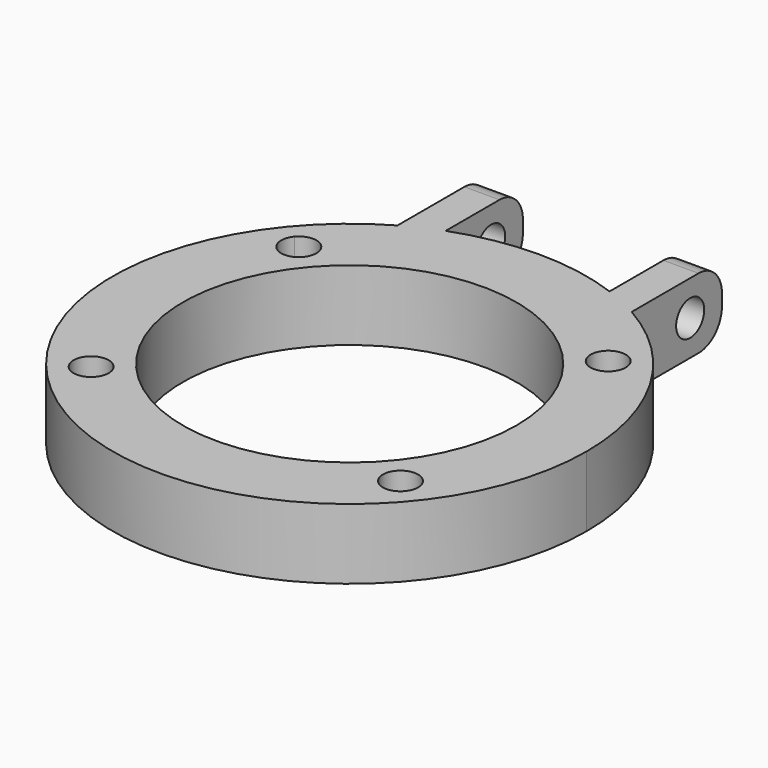
from build123d import *

# Parameters (mm, degrees)
F0_R     = 1.5
F0_R_2   = 14.25
F1_DEPTH = 6
F2_R     = 1.5
F3_DEPTH = 30.251
F4_R     = 2.5


with BuildPart() as f1:
    # F0 (on Top) → F1 (new body)
    with BuildSketch(Plane.XY):
        with BuildLine():
            ThreePointArc((-10, 17.608592), (-10.187308, -17.500893), (20.25, 0))
            ThreePointArc((20.25, 0), (17.500893, 10.187308), (10, 17.608592))
            ThreePointArc((10, 17.608592), (8.52849, 18.366474), (7, 19.001645))
            ThreePointArc((7, 19.001645), (0, 20.25), (-7, 19.001645))
            ThreePointArc((-7, 19.001645), (-8.52849, 18.366474), (-10, 17.608592))
        make_face()
        with Locations((-13.214267, -11.088086)):
            Circle(F0_R, mode=Mode.SUBTRACT)
        with Locations((13.214267, -11.088086)):
            Circle(F0_R, mode=Mode.SUBTRACT)
        Circle(F0_R_2, mode=Mode.SUBTRACT)
        with BuildLine():
            ThreePointArc((-11.714267, 11.088086), (-11.804728, 10.575056), (-12.0652, 10.123905))
            ThreePointArc((-12.0652, 10.123905), (-14.178448, 9.93902), (-14.363333, 12.052268))
            ThreePointArc((-14.363333, 12.052268), (-12.701236, 12.497625), (-11.714267, 11.088086))
        make_face(mode=Mode.SUBTRACT)
        with BuildLine():
            ThreePointArc((14.714267, 11.088086), (13.727297, 9.678547), (12.0652, 10.123905))
            ThreePointArc((12.0652, 10.123905), (12.250085, 12.237153), (14.363333, 12.052268))
            ThreePointArc((14.363333, 12.052268), (14.623806, 11.601116), (14.714267, 11.088086))
        make_face(mode=Mode.SUBTRACT)
        with BuildLine():
            ThreePointArc((7, 19.001645), (8.52849, 18.366474), (10, 17.608592))
            Line((10, 17.608592), (10, 27.25))
            Line((10, 27.25), (7, 27.25))
            Line((7, 27.25), (7, 19.001645))
        make_face()
        with BuildLine():
            Line((-10, 27.25), (-10, 17.608592))
            ThreePointArc((-10, 17.608592), (-8.52849, 18.366474), (-7, 19.001645))
            Line((-7, 19.001645), (-7, 27.25))
            Line((-7, 27.25), (-10, 27.25))
        make_face()
    extrude(amount=F1_DEPTH)

    # F2 (on face) → F3 (cut, through all)
    with BuildSketch(Plane(origin=(-10, 0, 0), x_dir=(0, -1, 0), z_dir=(-1, 0, 0))):
        with Locations((-23.861416, 3)):
            Circle(F2_R)
    extrude(amount=-F3_DEPTH, mode=Mode.SUBTRACT)

    # F4
    f4_edges = [f1.edges().sort_by_distance(p)[0] for p in [
        (8.5, 27.25, 6),
        (8.5, 27.25, 0),
        (-8.5, 27.25, 0),
        (-8.5, 27.25, 6),
    ]]
    fillet(f4_edges, radius=F4_R)


solid = f1.part
